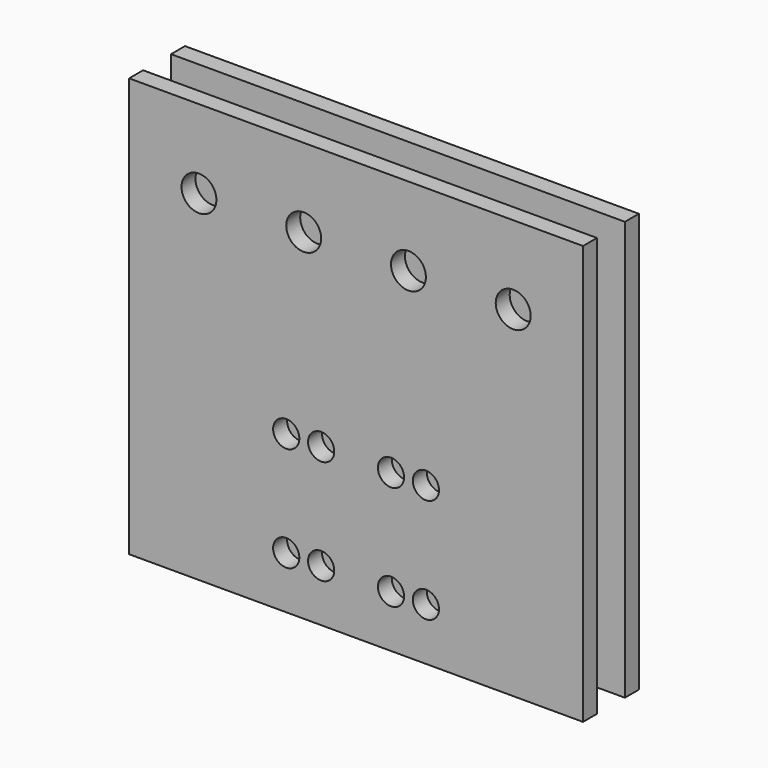
from build123d import *

# Parameters (mm, degrees)
F0_W     = 165.1
F0_H     = 6.35
F1_DEPTH = 76.2
F2_R     = 4.7625
F2_R_2   = 6.35
F3_DEPTH = 25.401


with BuildPart() as f1:
    # F0 (on Top) → F1 (new body, symmetric)
    with BuildSketch(Plane.XY):
        Rectangle(F0_W, F0_H)
        with Locations((0, -19.05)):
            Rectangle(F0_W, F0_H)
    extrude(amount=F1_DEPTH, both=True)

    # F2 (on face) → F3 (cut, through all)
    with BuildSketch(Plane(origin=(0, 3.175, 0), x_dir=(-1, 0, 0), z_dir=(0, 1, 0))):
        with Locations((-12.7, -57.15)):
            Circle(F2_R)
        with Locations((25.4, -57.15)):
            Circle(F2_R)
        with Locations((25.4, -19.05)):
            Circle(F2_R)
        with Locations((-12.7, -19.05)):
            Circle(F2_R)
        with Locations((-57.15, 47.625)):
            Circle(F2_R_2)
        with Locations((-19.05, 47.625)):
            Circle(F2_R_2)
        with Locations((19.05, 47.625)):
            Circle(F2_R_2)
        with Locations((57.15, 47.625)):
            Circle(F2_R_2)
        with Locations((-25.4, -19.05)):
            Circle(F2_R)
        with Locations((12.7, -19.05)):
            Circle(F2_R)
        with Locations((12.7, -57.15)):
            Circle(F2_R)
        with Locations((-25.4, -57.15)):
            Circle(F2_R)
    extrude(amount=-F3_DEPTH, mode=Mode.SUBTRACT)


solid = f1.part
